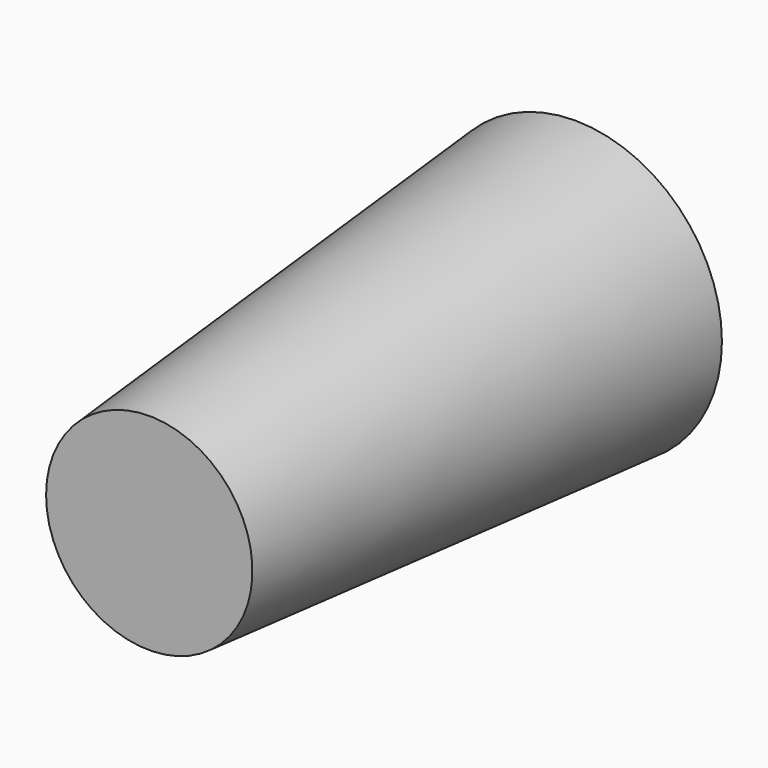
from build123d import *

# Parameters (mm, degrees)
F2_R     = 3.930298
F3_DEPTH = 10


with BuildPart() as f1:
    # F0 (on Top) → F1 (revolve)
    with BuildSketch(Plane.XY):
        Polygon((0, -39.865825), (0, 0), (-11, 0), (-7.726475, -39.865825), align=None)
    revolve(axis=Axis((0, -19.932913, 0), (0, 1, 0)))

    # F2 (on face) → F3 (cut)
    with BuildSketch(Plane(origin=(0, 0, 0), x_dir=(-1, 0, 0), z_dir=(0, 1, 0))):
        Circle(F2_R)
    extrude(amount=-F3_DEPTH, mode=Mode.SUBTRACT)


solid = f1.part
